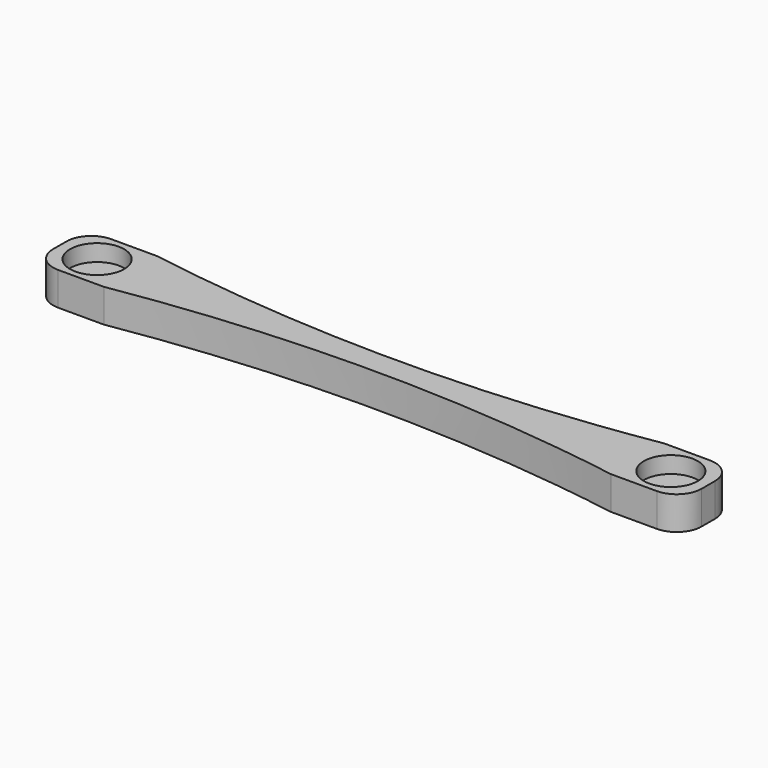
from build123d import *

# Parameters (mm, degrees)
CYLINDER134_R     = 3.25
CYLINDER134_DEPTH = 3.5
CYLINDER136_R     = 0.6
CYLINDER136_DEPTH = 9.5
CYLINDER135_R     = 0.6
CYLINDER135_DEPTH = 9.5
CYLINDER133_R     = 3.25
CYLINDER133_DEPTH = 3.5
PAD012_DEPTH      = 4
FILLET076_R       = 3


with BuildPart() as zylinder134:
    # Cylinder134 → Cylinder134 (new body)
    with BuildSketch(Plane(origin=(-52.5, 23, -36), x_dir=(1, 0, 0), z_dir=(0, 0, 1))):
        Circle(CYLINDER134_R)
    extrude(amount=CYLINDER134_DEPTH)


with BuildPart() as zylinder136:
    # Cylinder136 → Cylinder136 (new body)
    with BuildSketch(Plane(origin=(16.5, 23, -39), x_dir=(1, 0, 0), z_dir=(0, 0, 1))):
        Circle(CYLINDER136_R)
    extrude(amount=CYLINDER136_DEPTH)


with BuildPart() as zylinder135:
    # Cylinder135 → Cylinder135 (new body)
    with BuildSketch(Plane(origin=(-52.5, 23, -39), x_dir=(1, 0, 0), z_dir=(0, 0, 1))):
        Circle(CYLINDER135_R)
    extrude(amount=CYLINDER135_DEPTH)


with BuildPart() as fusion087:
    # Cylinder133 → Cylinder133 (new body)
    with BuildSketch(Plane(origin=(16.5, 23, -36), x_dir=(1, 0, 0), z_dir=(0, 0, 1))):
        Circle(CYLINDER133_R)
    extrude(amount=CYLINDER133_DEPTH)

    # Fusion087: union Zylinder134, Zylinder136, Zylinder135
    add(zylinder134.part)
    add(zylinder136.part)
    add(zylinder135.part)


with BuildPart() as fillet076:
    # Sketch012 → Pad012 (new body)
    with BuildSketch(Plane.XY):
        with BuildLine():
            add(Edge.make_bspline(
                [(-48.5, 19), (-18, 24), (12.5, 19)],
                knots=[0, 0, 0, 1, 1, 1], degree=2))
            Line((-48.5, 19), (-57, 19))
            Line((-57, 19), (-57, 27))
            Line((-57, 27), (-48.5, 27))
            add(Edge.make_bspline(
                [(-48.5, 27), (-18, 22), (12.5, 27)],
                knots=[0, 0, 0, 1, 1, 1], degree=2))
            Line((12.5, 27), (21, 27))
            Line((21, 27), (21, 19))
            Line((21, 19), (12.5, 19))
        make_face()
    extrude(amount=PAD012_DEPTH)


with BuildPart() as fillet076_1:
    # Body003 placement: moved
    add(fillet076.part.moved(Location((0, 0, -38))))

    # Cut065: cut Fusion087
    add(fusion087.part, mode=Mode.SUBTRACT)

    # Fillet076
    fillet076_edges = [fillet076_1.edges().sort_by_distance(p)[0] for p in [
        (-57, 19, -36),
        (21, 19, -36),
        (-57, 27, -36),
        (21, 27, -36),
    ]]
    fillet(fillet076_edges, radius=FILLET076_R)


with BuildPart() as fillet076_2:
    # Fillet076 placement: moved
    add(fillet076_1.part.moved(Location((0, -46, 0))))


solid = fillet076_2.part
